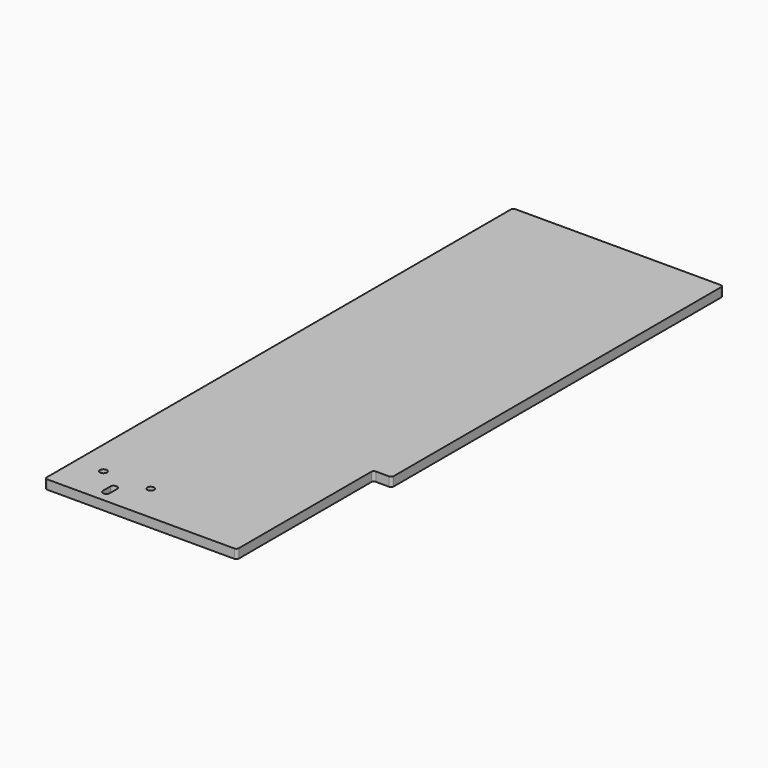
from build123d import *

# Parameters (mm, degrees)
F0_R     = 7.14375
F1_DEPTH = 19.05
F2_R     = 5.08


with BuildPart() as f1:
    # F0 (on Top) → F1 (new body)
    with BuildSketch(Plane.XY):
        Polygon((0, 1219.2), (0, 0), (400.05, 0), (400.05, 355.6), (438.15, 355.6), (438.15, 1219.2), align=None)
        with BuildLine():
            Line((115.09375, 44.45), (115.09375, 25.4))
            ThreePointArc((115.09375, 25.4), (107.95, 18.25625), (100.80625, 25.4))
            Line((100.80625, 25.4), (100.80625, 44.45))
            ThreePointArc((100.80625, 44.45), (107.95, 51.59375), (115.09375, 44.45))
        make_face(mode=Mode.SUBTRACT)
        with Locations((58.674, 79.375)):
            Circle(F0_R, mode=Mode.SUBTRACT)
        with Locations((157.226, 79.375)):
            Circle(F0_R, mode=Mode.SUBTRACT)
    extrude(amount=F1_DEPTH)

    # F2
    f2_edges = [f1.edges().sort_by_distance(p)[0] for p in [
        (0, 1219.2, 9.525),
        (0, 0, 9.525),
        (438.15, 355.6, 9.525),
        (400.05, 0, 9.525),
        (400.05, 355.6, 9.525),
        (438.15, 1219.2, 9.525),
    ]]
    fillet(f2_edges, radius=F2_R)


solid = f1.part
